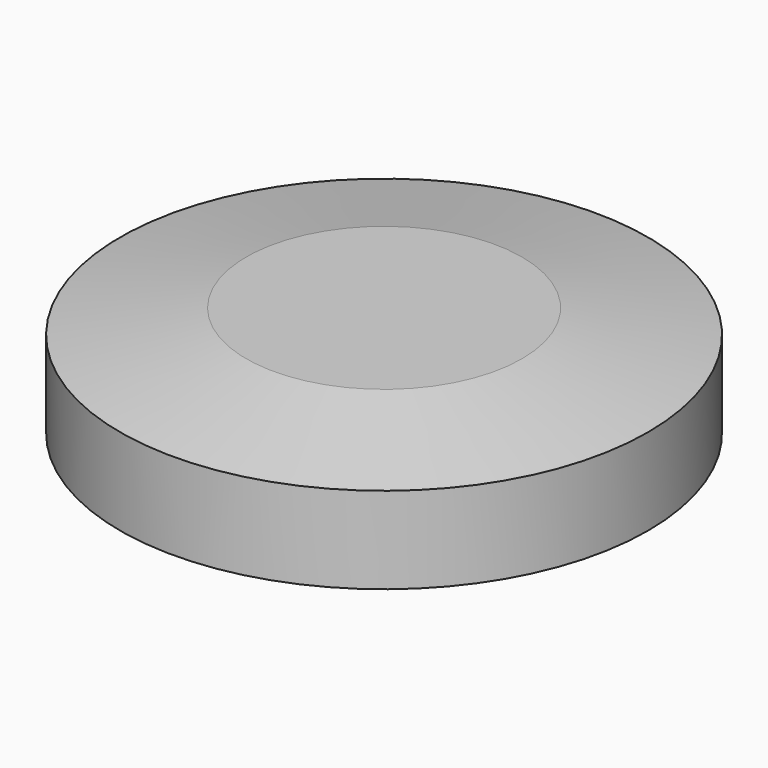
from build123d import *

# Parameters (mm, degrees)
F0_R       = 33.5
F1_DEPTH   = 17
F2_SIZE2   = 3
F2_SIZE    = 16
F2_2_SIZE2 = 3
F2_2_SIZE  = 16


with BuildPart() as f1:
    # F0 (on Top) → F1 (new body)
    with BuildSketch(Plane.XY):
        Circle(F0_R)
    extrude(amount=F1_DEPTH)

    # F2
    f2_edges = [f1.edges().sort_by_distance(p)[0] for p in [
        (-33.5, 0, 17),
    ]]
    f2_side = f1.faces().sort_by_distance((0, 0, 17))[0]
    chamfer(f2_edges, length=F2_SIZE, length2=F2_SIZE2, reference=f2_side)

    # F2#2
    f2_2_edges = [f1.edges().sort_by_distance(p)[0] for p in [
        (-33.5, 0, 0),
    ]]
    f2_2_side = f1.faces().sort_by_distance((0, 0, 0))[0]
    chamfer(f2_2_edges, length=F2_2_SIZE, length2=F2_2_SIZE2, reference=f2_2_side)


solid = f1.part
